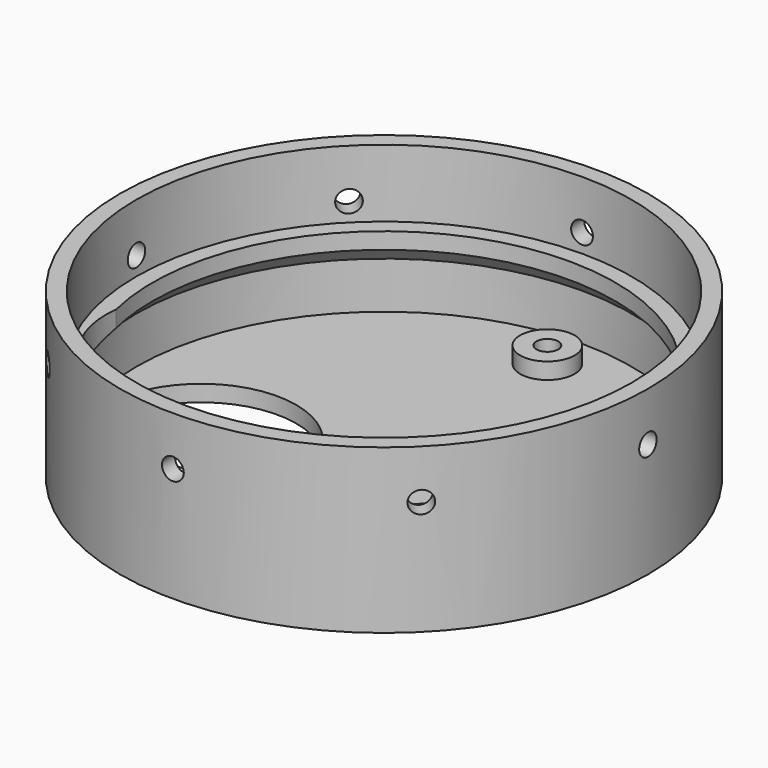
from build123d import *

# Parameters (mm, degrees)
F2_R      = 2
F3_DEPTH  = 77.8
F4_R      = 5
F5_DEPTH  = 6
F6_R      = 2
F7_DEPTH  = 12.5
F8_DEPTH  = 12.5
F9_R      = 2
F10_DEPTH = 50
F11_R     = 17.5
F12_DEPTH = 25
F14_R     = 2
F15_DEPTH = 50
F17_R     = 2
F18_DEPTH = 50


with BuildPart() as f1:
    # F0 (on Front) → F1 (revolve)
    with BuildSketch(Plane.XZ):
        Polygon((-48.5, 0), (0, 0), (0, 3), (-45.5, 3), (-45.5, 11.58), (-45.5, 17.58), (-45.5, 30), (-48.5, 30), align=None)
        Polygon((-45.5, 17.58), (-45.5, 11.58), (-42.5, 14.58), (-42.5, 17.58), align=None)
    revolve(axis=Axis((0, 0, 1.5), (0, 0, -1)))

    # F2 (on Front) → F3 (cut, symmetric)
    with BuildSketch(Plane.XZ):
        with Locations((0, 21)):
            Circle(F2_R)
    extrude(amount=F3_DEPTH, both=True, mode=Mode.SUBTRACT)

    # F4 (on Top) → F5 (join)
    with BuildSketch(Plane.XY):
        with Locations((0, -37.5)):
            Circle(F4_R)
        with Locations((0, 37.5)):
            Circle(F4_R)
    extrude(amount=F5_DEPTH)

    # F6 (on face) → F7 (cut, symmetric)
    with BuildSketch(Plane.XY.offset(3)):
        with Locations((0, 37.5)):
            Circle(F6_R)
    extrude(amount=F7_DEPTH, both=True, mode=Mode.SUBTRACT)

    # F6 (on face) → F8 (cut, symmetric)
    with BuildSketch(Plane.XY.offset(3)):
        with Locations((0, -37.5)):
            Circle(F6_R)
    extrude(amount=F8_DEPTH, both=True, mode=Mode.SUBTRACT)

    # F9 (on Right) → F10 (cut, symmetric)
    with BuildSketch(Plane.YZ):
        with Locations((0, 21)):
            Circle(F9_R)
    extrude(amount=F10_DEPTH, both=True, mode=Mode.SUBTRACT)

    # F11 (on face) → F12 (cut, symmetric)
    with BuildSketch(Plane.XY.offset(3)):
        with Locations((-24, -12)):
            Circle(F11_R)
    extrude(amount=F12_DEPTH, both=True, mode=Mode.SUBTRACT)

    # F14 (on face) → F15 (cut, symmetric)
    with BuildSketch(Plane(origin=(0, 0, 0), x_dir=(0.707107, -0.707107, 0), z_dir=(-0.707107, -0.707107, 0))):
        with Locations((0, 21)):
            Circle(F14_R)
    extrude(amount=F15_DEPTH, both=True, mode=Mode.SUBTRACT)

    # F17 (on face) → F18 (cut, symmetric)
    with BuildSketch(Plane(origin=(0, 0, 0), x_dir=(-0.707107, -0.707107, 0), z_dir=(-0.707107, 0.707107, 0))):
        with Locations((0, 21)):
            Circle(F17_R)
    extrude(amount=F18_DEPTH, both=True, mode=Mode.SUBTRACT)


solid = f1.part
